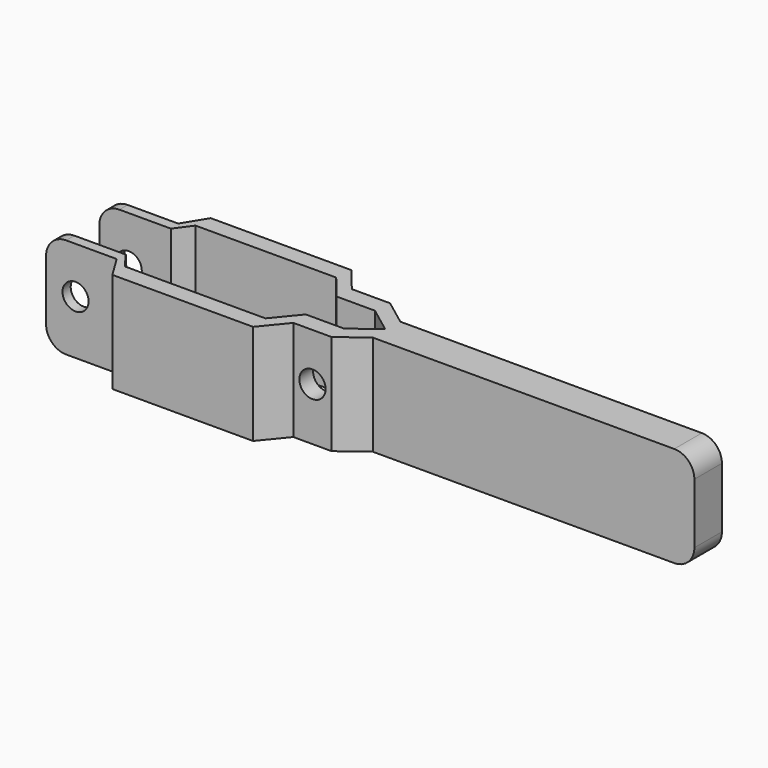
from build123d import *

# Parameters (mm, degrees)
F1_DEPTH      = 25
F2_R          = 5
F3_R          = 5
F4_R          = 3.2402082651
F5_DEPTH      = 25
F5_DEPTH_BACK = 25
F6_R          = 3.2653549995
F7_DEPTH      = 25
F7_DEPTH_BACK = 25


with BuildPart() as f1:
    # F0 (on Top) → F1 (new body)
    with BuildSketch(Plane.XY):
        Polygon((-23.0555834253, -9.0956758987), (-16.664795906, -4.2834170857), (55.335204094, -4.2834170857), (63.335204094, -4.2834170857), (63.335204094, 4.2834170857), (55.335204094, 4.2834170857), (-16.664795906, 4.2834170857), (-23.0555834253, 9.0956758987), (-32.5767005301, 9.0956758987), (-37.6473867758, 15.2834170857), (-72.6473867758, 15.2834170857), (-76.1434496577, 9.5535986996), (-93.7138741884, 9.5535986996), (-93.7138741884, 7), (-75.9291218825, 7), (-72.9862269919, 11), (-37.9862269919, 11), (-32.9155407462, 4.812258813), (-23.3944236414, 4.812258813), (-17.0036361221, 0), (-23.3944236414, -4.812258813), (-32.9155407462, -4.812258813), (-37.9862269919, -11), (-72.9862269919, -11), (-75.9291218825, -7), (-93.7138741884, -7), (-93.7138741884, -9.5535986996), (-76.1434496577, -9.5535986996), (-72.6473867758, -15.2834170857), (-37.6473867758, -15.2834170857), (-32.5767005301, -9.0956758987), align=None)
    extrude(amount=F1_DEPTH)

    # F2
    f2_edges = [f1.edges().sort_by_distance(p)[0] for p in [
        (63.335204, 0, 25),
        (63.335204, 0, 0),
    ]]
    fillet(f2_edges, radius=F2_R)

    # F3
    f3_edges = [f1.edges().sort_by_distance(p)[0] for p in [
        (-93.713874, 8.276799, 25),
        (-93.713874, 8.276799, 0),
        (-93.713874, -8.276799, 25),
        (-93.713874, -8.276799, 0),
    ]]
    fillet(f3_edges, radius=F3_R)

    # F4 (on face) → F5 (cut, two sides)
    with BuildSketch(Plane.XZ.offset(9.5535986996)) as f5_sk:
        with Locations((-86.387142539, 13.4355006739)):
            Circle(F4_R)
    extrude(amount=F5_DEPTH, mode=Mode.SUBTRACT)
    extrude(f5_sk.sketch, amount=-F5_DEPTH_BACK, mode=Mode.SUBTRACT)

    # F6 (on Front) → F7 (cut, two sides)
    with BuildSketch(Plane.XZ) as f7_sk:
        with Locations((-27.815233916, 13.1105445325)):
            Circle(F6_R)
    extrude(amount=-F7_DEPTH, mode=Mode.SUBTRACT)
    extrude(f7_sk.sketch, amount=F7_DEPTH_BACK, mode=Mode.SUBTRACT)


solid = f1.part
